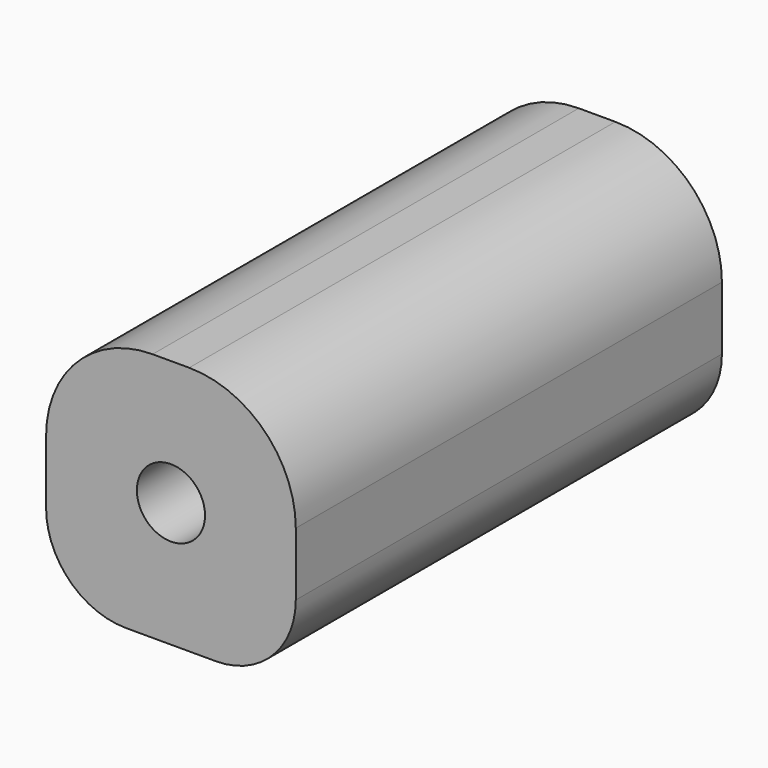
from build123d import *

# Parameters (mm, degrees)
F0_R     = 1.6256
F1_DEPTH = 25.4
F2_R     = 5.08
F3_R     = 3.81


with BuildPart() as f1:
    # F0 (on Front) → F1 (new body)
    with BuildSketch(Plane.XZ):
        with BuildLine():
            Line((-10.059392821, 9.5458903177), (-10.059392821, 3.5927653177))
            ThreePointArc((-10.059392821, 3.5927653177), (-8.3157628778, 7.8022603745), (-4.106267821, 9.5458903177))
            Line((-4.106267821, 9.5458903177), (-10.059392821, 9.5458903177))
        make_face()
        with BuildLine():
            ThreePointArc((-4.106267821, 9.5458903177), (-8.3157628778, 7.8022603745), (-10.059392821, 3.5927653177))
            ThreePointArc((-10.059392821, 3.5927653177), (-8.3157628778, -0.616729739), (-4.106267821, -2.3603596823))
            ThreePointArc((-4.106267821, -2.3603596823), (0.1032272357, -0.616729739), (1.846857179, 3.5927653177))
            ThreePointArc((1.846857179, 3.5927653177), (0.1032272357, 7.8022603745), (-4.106267821, 9.5458903177))
        make_face()
        with Locations((-4.106267821, 3.5927653177)):
            Circle(F0_R, mode=Mode.SUBTRACT)
        with BuildLine():
            Line((1.846857179, 9.5458903177), (-4.106267821, 9.5458903177))
            ThreePointArc((-4.106267821, 9.5458903177), (0.1032272357, 7.8022603745), (1.846857179, 3.5927653177))
            Line((1.846857179, 3.5927653177), (1.846857179, 9.5458903177))
        make_face()
        with BuildLine():
            ThreePointArc((1.846857179, 3.5927653177), (0.1032272357, -0.616729739), (-4.106267821, -2.3603596823))
            Line((-4.106267821, -2.3603596823), (1.846857179, -2.3603596823))
            Line((1.846857179, -2.3603596823), (1.846857179, 3.5927653177))
        make_face()
        with BuildLine():
            ThreePointArc((-4.106267821, -2.3603596823), (-8.3157628778, -0.616729739), (-10.059392821, 3.5927653177))
            Line((-10.059392821, 3.5927653177), (-10.059392821, -2.3603596823))
            Line((-10.059392821, -2.3603596823), (-4.106267821, -2.3603596823))
        make_face()
    extrude(amount=F1_DEPTH)

    # F2
    f2_edges = [f1.edges().sort_by_distance(p)[0] for p in [
        (1.846857, -12.7, 9.54589),
        (-10.059393, -12.7, 9.54589),
    ]]
    fillet(f2_edges, radius=F2_R)

    # F3
    f3_edges = [f1.edges().sort_by_distance(p)[0] for p in [
        (-10.059393, -12.7, -2.36036),
        (1.846857, -12.7, -2.36036),
    ]]
    fillet(f3_edges, radius=F3_R)


solid = f1.part
